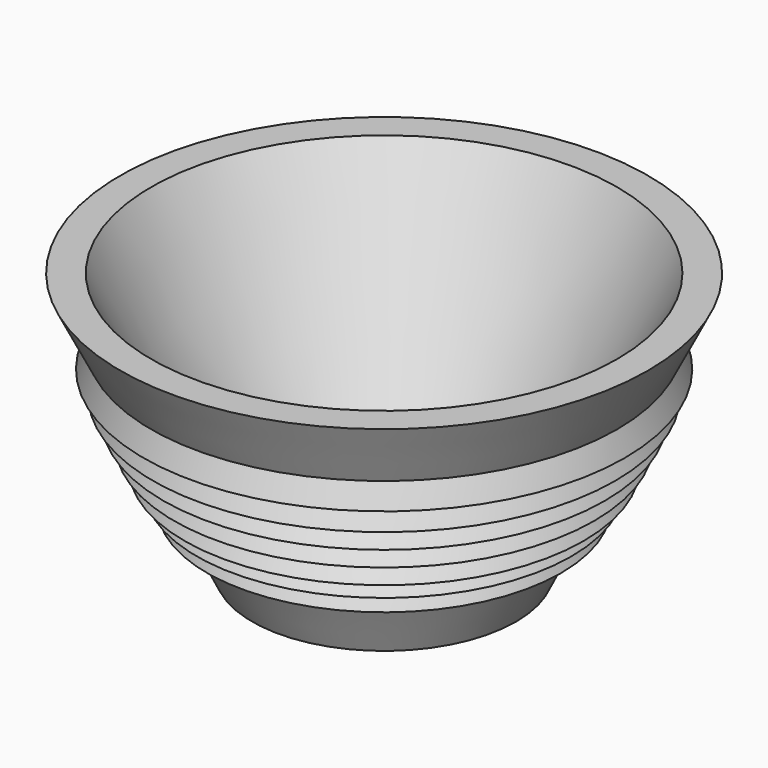
from build123d import *


with BuildPart() as f1:
    # F0 (on Front) → F1 (revolve)
    with BuildSketch(Plane.XZ):
        Polygon((0, 5.334), (0, 0), (25.4, 0), (30.930716, 11.061433), (32.660495, 14.520989), (34.351828, 17.903656), (36.378811, 21.957622), (38.40592, 26.01184), (40.433155, 30.066309), (42.665875, 34.53175), (44.859473, 38.918946), (50.8, 50.8), (44.836407, 50.8), (22.103407, 5.334), align=None)
        Polygon((32.660495, 14.520989), (30.930716, 11.061433), (34.072268, 11.061433), align=None)
        Polygon((34.351828, 17.903656), (32.660495, 14.520989), (36.043372, 14.520989), align=None)
        Polygon((36.378811, 21.957622), (34.351828, 17.903656), (38.406046, 17.903656), align=None)
        Polygon((46.310384, 34.53175), (44.859473, 38.918946), (42.665875, 34.53175), align=None)
        Polygon((38.40592, 26.01184), (36.378811, 21.957622), (40.433281, 21.957622), align=None)
        Polygon((44.488129, 30.066309), (42.665875, 34.53175), (40.433155, 30.066309), align=None)
        Polygon((40.433155, 30.066309), (38.40592, 26.01184), (42.460642, 26.01184), align=None)
    revolve(axis=Axis((0, 0, 25.4), (0, 0, 1)))


solid = f1.part
